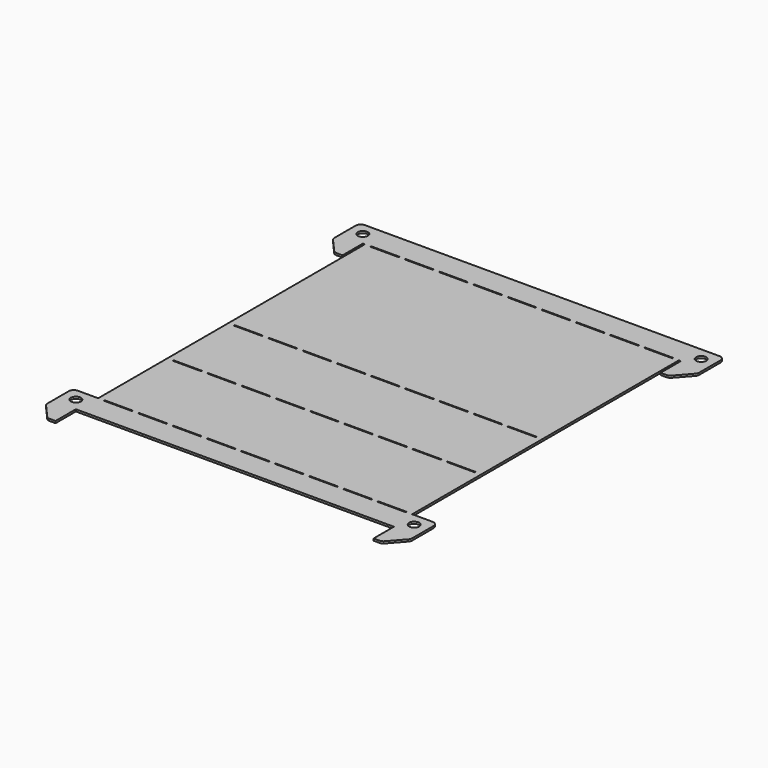
from build123d import *

# Parameters (mm, degrees)
F0_R     = 5
F1_DEPTH = 2


with BuildPart() as f1:
    # F0 (on Top) → F1 (new body)
    with BuildSketch(Plane.XY):
        with BuildLine():
            Line((-156.5, 353), (-154.5, 353))
            Line((-154.5, 353), (-154.5, 378))
            Line((-154.5, 378), (-174.5, 378))
            ThreePointArc((-174.5, 378), (-178.0355339059, 376.5355339059), (-179.5, 373))
            Line((-179.5, 373), (-179.5, 353))
            Line((-179.5, 353), (-156.5, 353))
        make_face()
        with Locations((-166.5, 365.5)):
            Circle(F0_R, mode=Mode.SUBTRACT)
        with BuildLine():
            Line((-156.5, 328), (-156.5, 353))
            Line((-156.5, 353), (-179.5, 353))
            Line((-179.5, 353), (-179.5, 346.8905226992))
            ThreePointArc((-179.5, 346.8905226992), (-179.1768550536, 345.1221825713), (-178.2491892768, 343.5824145137))
            Line((-178.2491892768, 343.5824145137), (-165.9928457187, 329.6918918146))
            ThreePointArc((-165.9928457187, 329.6918918146), (-164.300287069, 328.4425587811), (-162.2436564419, 328))
            Line((-162.2436564419, 328), (-156.5, 328))
        make_face()
        Polygon((-154.5, 378), (-154.5, 353), (-148.5, 353), (-148.5, 353.5), (-120.8, 353.5), (-120.8, 353), (-114.8, 353), (-114.8, 353.5), (-87.1, 353.5), (-87.1, 353), (-81.1, 353), (-81.1, 353.5), (-53.4, 353.5), (-53.4, 353), (-47.4, 353), (-47.4, 353.5), (-19.7, 353.5), (-19.7, 353), (-13.7, 353), (-13.7, 353.5), (0, 353.5), (0, 378), align=None)
        Polygon((-154.5, 353), (-154.5, 110), (-148.5, 110), (-148.5, 110.5), (-120.8, 110.5), (-120.8, 110), (-114.8, 110), (-114.8, 110.5), (-87.1, 110.5), (-87.1, 110), (-81.1, 110), (-81.1, 110.5), (-53.4, 110.5), (-53.4, 110), (-47.4, 110), (-47.4, 110.5), (-19.7, 110.5), (-19.7, 110), (-13.7, 110), (-13.7, 110.5), (0, 110.5), (0, 184.5), (-13.7, 184.5), (-13.7, 185), (-13.7, 185.5), (0, 185.5), (0, 352.5), (-13.7, 352.5), (-13.7, 353), (-19.7, 353), (-19.7, 352.5), (-47.4, 352.5), (-47.4, 353), (-53.4, 353), (-53.4, 352.5), (-81.1, 352.5), (-81.1, 353), (-87.1, 353), (-87.1, 352.5), (-114.8, 352.5), (-114.8, 353), (-120.8, 353), (-120.8, 352.5), (-148.5, 352.5), (-148.5, 353), align=None)
        Polygon((-120.8, 185.5), (-120.8, 185), (-120.8, 184.5), (-148.5, 184.5), (-148.5, 185), (-148.5, 185.5), align=None, mode=Mode.SUBTRACT)
        Polygon((-87.1, 185.5), (-87.1, 185), (-87.1, 184.5), (-114.8, 184.5), (-114.8, 185), (-114.8, 185.5), align=None, mode=Mode.SUBTRACT)
        Polygon((-53.4, 185.5), (-53.4, 185), (-53.4, 184.5), (-81.1, 184.5), (-81.1, 185), (-81.1, 185.5), align=None, mode=Mode.SUBTRACT)
        Polygon((-19.7, 185.5), (-19.7, 185), (-19.7, 184.5), (-47.4, 184.5), (-47.4, 185), (-47.4, 185.5), align=None, mode=Mode.SUBTRACT)
        Polygon((148.5, 353), (154.5, 353), (154.5, 378), (0, 378), (0, 353.5), (13.7, 353.5), (13.7, 353), (19.7, 353), (19.7, 353.5), (47.4, 353.5), (47.4, 353), (53.4, 353), (53.4, 353.5), (81.1, 353.5), (81.1, 353), (87.1, 353), (87.1, 353.5), (114.8, 353.5), (114.8, 353), (120.8, 353), (120.8, 353.5), (148.5, 353.5), align=None)
        Polygon((148.5, 110), (154.5, 110), (154.5, 353), (148.5, 353), (148.5, 352.5), (120.8, 352.5), (120.8, 353), (114.8, 353), (114.8, 352.5), (87.1, 352.5), (87.1, 353), (81.1, 353), (81.1, 352.5), (53.4, 352.5), (53.4, 353), (47.4, 353), (47.4, 352.5), (19.7, 352.5), (19.7, 353), (13.7, 353), (13.7, 352.5), (0, 352.5), (0, 185.5), (13.7, 185.5), (13.7, 185), (13.7, 184.5), (0, 184.5), (0, 110.5), (13.7, 110.5), (13.7, 110), (19.7, 110), (19.7, 110.5), (47.4, 110.5), (47.4, 110), (53.4, 110), (53.4, 110.5), (81.1, 110.5), (81.1, 110), (87.1, 110), (87.1, 110.5), (114.8, 110.5), (114.8, 110), (120.8, 110), (120.8, 110.5), (148.5, 110.5), align=None)
        Polygon((19.7, 184.5), (19.7, 185), (19.7, 185.5), (47.4, 185.5), (47.4, 185), (47.4, 184.5), align=None, mode=Mode.SUBTRACT)
        Polygon((53.4, 184.5), (53.4, 185), (53.4, 185.5), (81.1, 185.5), (81.1, 185), (81.1, 184.5), align=None, mode=Mode.SUBTRACT)
        Polygon((87.1, 184.5), (87.1, 185), (87.1, 185.5), (114.8, 185.5), (114.8, 185), (114.8, 184.5), align=None, mode=Mode.SUBTRACT)
        Polygon((120.8, 184.5), (120.8, 185), (120.8, 185.5), (148.5, 185.5), (148.5, 185), (148.5, 184.5), align=None, mode=Mode.SUBTRACT)
        with BuildLine():
            Line((154.5, 378), (154.5, 353))
            Line((154.5, 353), (156.5, 353))
            Line((156.5, 353), (179.5, 353))
            Line((179.5, 353), (179.5, 373))
            ThreePointArc((179.5, 373), (178.0355339059, 376.5355339059), (174.5, 378))
            Line((174.5, 378), (154.5, 378))
        make_face()
        with Locations((166.5, 365.5)):
            Circle(F0_R, mode=Mode.SUBTRACT)
        with BuildLine():
            Line((179.5, 353), (156.5, 353))
            Line((156.5, 353), (156.5, 328))
            Line((156.5, 328), (162.2436564419, 328))
            ThreePointArc((162.2436564419, 328), (164.300287069, 328.4425587811), (165.9928457187, 329.6918918146))
            Line((165.9928457187, 329.6918918146), (178.2491892768, 343.5824145137))
            ThreePointArc((178.2491892768, 343.5824145137), (179.1768550536, 345.1221825713), (179.5, 346.8905226992))
            Line((179.5, 346.8905226992), (179.5, 353))
        make_face()
        with BuildLine():
            Line((-156.5, -25), (-156.5, 0))
            Line((-156.5, 0), (-179.5, 0))
            Line((-179.5, 0), (-179.5, -6.1094773008))
            ThreePointArc((-179.5, -6.1094773008), (-179.1768550536, -7.8778174287), (-178.2491892768, -9.4175854863))
            Line((-178.2491892768, -9.4175854863), (-165.9928457187, -23.3081081854))
            ThreePointArc((-165.9928457187, -23.3081081854), (-164.300287069, -24.5574412189), (-162.2436564419, -25))
            Line((-162.2436564419, -25), (-156.5, -25))
        make_face()
        with BuildLine():
            Line((-156.5, 0), (-154.5, 0))
            Line((-154.5, 0), (-154.5, 25))
            Line((-154.5, 25), (-174.5, 25))
            ThreePointArc((-174.5, 25), (-178.0355339059, 23.5355339059), (-179.5, 20))
            Line((-179.5, 20), (-179.5, 0))
            Line((-179.5, 0), (-156.5, 0))
        make_face()
        with Locations((-166.5, 12.5)):
            Circle(F0_R, mode=Mode.SUBTRACT)
        Polygon((-154.5, 0), (0, 0), (0, 24.5), (-13.7, 24.5), (-13.7, 25), (-19.7, 25), (-19.7, 24.5), (-47.4, 24.5), (-47.4, 25), (-53.4, 25), (-53.4, 24.5), (-81.1, 24.5), (-81.1, 25), (-87.1, 25), (-87.1, 24.5), (-114.8, 24.5), (-114.8, 25), (-120.8, 25), (-120.8, 24.5), (-148.5, 24.5), (-148.5, 25), (-154.5, 25), align=None)
        Polygon((-154.5, 110), (-154.5, 25), (-148.5, 25), (-148.5, 25.5), (-120.8, 25.5), (-120.8, 25), (-114.8, 25), (-114.8, 25.5), (-87.1, 25.5), (-87.1, 25), (-81.1, 25), (-81.1, 25.5), (-53.4, 25.5), (-53.4, 25), (-47.4, 25), (-47.4, 25.5), (-19.7, 25.5), (-19.7, 25), (-13.7, 25), (-13.7, 25.5), (0, 25.5), (0, 109.5), (-13.7, 109.5), (-13.7, 110), (-19.7, 110), (-19.7, 109.5), (-47.4, 109.5), (-47.4, 110), (-53.4, 110), (-53.4, 109.5), (-81.1, 109.5), (-81.1, 110), (-87.1, 110), (-87.1, 109.5), (-114.8, 109.5), (-114.8, 110), (-120.8, 110), (-120.8, 109.5), (-148.5, 109.5), (-148.5, 110), align=None)
        Polygon((148.5, 25), (154.5, 25), (154.5, 110), (148.5, 110), (148.5, 109.5), (120.8, 109.5), (120.8, 110), (114.8, 110), (114.8, 109.5), (87.1, 109.5), (87.1, 110), (81.1, 110), (81.1, 109.5), (53.4, 109.5), (53.4, 110), (47.4, 110), (47.4, 109.5), (19.7, 109.5), (19.7, 110), (13.7, 110), (13.7, 109.5), (0, 109.5), (0, 25.5), (13.7, 25.5), (13.7, 25), (19.7, 25), (19.7, 25.5), (47.4, 25.5), (47.4, 25), (53.4, 25), (53.4, 25.5), (81.1, 25.5), (81.1, 25), (87.1, 25), (87.1, 25.5), (114.8, 25.5), (114.8, 25), (120.8, 25), (120.8, 25.5), (148.5, 25.5), align=None)
        Polygon((0, 24.5), (0, 0), (154.5, 0), (154.5, 25), (148.5, 25), (148.5, 24.5), (120.8, 24.5), (120.8, 25), (114.8, 25), (114.8, 24.5), (87.1, 24.5), (87.1, 25), (81.1, 25), (81.1, 24.5), (53.4, 24.5), (53.4, 25), (47.4, 25), (47.4, 24.5), (19.7, 24.5), (19.7, 25), (13.7, 25), (13.7, 24.5), align=None)
        with BuildLine():
            Line((154.5, 25), (154.5, 0))
            Line((154.5, 0), (156.5, 0))
            Line((156.5, 0), (179.5, 0))
            Line((179.5, 0), (179.5, 20))
            ThreePointArc((179.5, 20), (178.0355339059, 23.5355339059), (174.5, 25))
            Line((174.5, 25), (154.5, 25))
        make_face()
        with Locations((166.5, 12.5)):
            Circle(F0_R, mode=Mode.SUBTRACT)
        with BuildLine():
            Line((179.5, 0), (156.5, 0))
            Line((156.5, 0), (156.5, -25))
            Line((156.5, -25), (162.2436564419, -25))
            ThreePointArc((162.2436564419, -25), (164.300287069, -24.5574412189), (165.9928457187, -23.3081081854))
            Line((165.9928457187, -23.3081081854), (178.2491892768, -9.4175854863))
            ThreePointArc((178.2491892768, -9.4175854863), (179.1768550536, -7.8778174287), (179.5, -6.1094773008))
            Line((179.5, -6.1094773008), (179.5, 0))
        make_face()
    extrude(amount=F1_DEPTH)


solid = f1.part
